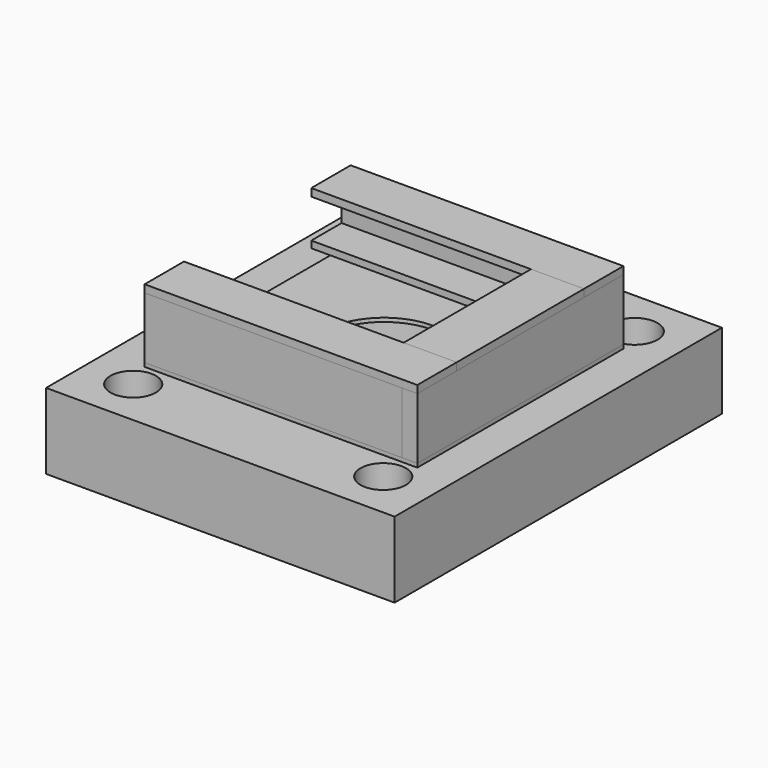
from build123d import *

# Parameters (mm, degrees)
SKETCH_W          = 46
SKETCH_H          = 54
PAD_DEPTH         = 10
SKETCH001_R       = 12.5
SKETCH001_R_2     = 3
POCKET_DEPTH      = 10.001
BOX001_W          = 2
BOX001_H          = 34
BOX001_DEPTH      = 8.1
BOX002_W          = 34
BOX002_H          = 1.5
BOX002_DEPTH      = 8.1
BOX003_W          = 34
BOX003_H          = 1.5
BOX003_DEPTH      = 8.1
BOX007_W          = 36
BOX007_H          = 6.5
BOX007_DEPTH      = 1
BOX008_W          = 36
BOX008_H          = 6.5
BOX008_DEPTH      = 1
BOX009_W          = 7
BOX009_H          = 21
BOX009_DEPTH      = 1
BOX004_W          = 34
BOX004_H          = 5
BOX004_DEPTH      = 0.9
BOX005_W          = 34
BOX005_H          = 5
BOX005_DEPTH      = 0.9
BOX011_W          = 5
BOX011_H          = 21
BOX011_DEPTH      = 0.9
CYLINDER001_R     = 8
CYLINDER001_DEPTH = 0.5
BOX_W             = 36
BOX_H             = 34
BOX_DEPTH         = 0.5


with BuildPart() as body:
    # Sketch → Pad (new body)
    with BuildSketch(Plane.XY):
        Rectangle(SKETCH_W, SKETCH_H)
    extrude(amount=PAD_DEPTH)

    # Sketch001 (on Face6 of Pad) → Pocket (cut, through all)
    with BuildSketch(Plane.XY.offset(10)):
        Circle(SKETCH001_R)
        with Locations((16.5, 20.75)):
            Circle(SKETCH001_R_2)
        with Locations((-16.5, 20.75)):
            Circle(SKETCH001_R_2)
        with Locations((-16.5, -20.75)):
            Circle(SKETCH001_R_2)
        with Locations((16.5, -20.75)):
            Circle(SKETCH001_R_2)
    extrude(amount=-POCKET_DEPTH, mode=Mode.SUBTRACT)


with BuildPart() as body_1:
    # Body placement: moved
    add(body.part.moved(Location((0, 0, -4))))


with BuildPart() as cube001:
    # Box001 → Box001 (new body)
    with BuildSketch(Plane(origin=(16, -17, 6.5), x_dir=(1, 0, 0), z_dir=(0, 0, 1))):
        with Locations((1, 17)):
            Rectangle(BOX001_W, BOX001_H)
    extrude(amount=BOX001_DEPTH)


with BuildPart() as cube002:
    # Box002 → Box002 (new body)
    with BuildSketch(Plane(origin=(-18, 15.5, 6.5), x_dir=(1, 0, 0), z_dir=(0, 0, 1))):
        with Locations((17, 0.75)):
            Rectangle(BOX002_W, BOX002_H)
    extrude(amount=BOX002_DEPTH)


with BuildPart() as cube003:
    # Box003 → Box003 (new body)
    with BuildSketch(Plane(origin=(-18, -17, 6.5), x_dir=(1, 0, 0), z_dir=(0, 0, 1))):
        with Locations((17, 0.75)):
            Rectangle(BOX003_W, BOX003_H)
    extrude(amount=BOX003_DEPTH)


with BuildPart() as cube007:
    # Box007 → Box007 (new body)
    with BuildSketch(Plane(origin=(-18, 10.5, 14.6), x_dir=(1, 0, 0), z_dir=(0, 0, 1))):
        with Locations((18, 3.25)):
            Rectangle(BOX007_W, BOX007_H)
    extrude(amount=BOX007_DEPTH)


with BuildPart() as cube008:
    # Box008 → Box008 (new body)
    with BuildSketch(Plane(origin=(-18, -17, 14.6), x_dir=(1, 0, 0), z_dir=(0, 0, 1))):
        with Locations((18, 3.25)):
            Rectangle(BOX008_W, BOX008_H)
    extrude(amount=BOX008_DEPTH)


with BuildPart() as cube009:
    # Box009 → Box009 (new body)
    with BuildSketch(Plane(origin=(11, -10.5, 14.6), x_dir=(1, 0, 0), z_dir=(0, 0, 1))):
        with Locations((3.5, 10.5)):
            Rectangle(BOX009_W, BOX009_H)
    extrude(amount=BOX009_DEPTH)


with BuildPart() as cube004:
    # Box004 → Box004 (new body)
    with BuildSketch(Plane(origin=(-18, 10.5, 8.6), x_dir=(1, 0, 0), z_dir=(0, 0, 1))):
        with Locations((17, 2.5)):
            Rectangle(BOX004_W, BOX004_H)
    extrude(amount=BOX004_DEPTH)


with BuildPart() as cube005:
    # Box005 → Box005 (new body)
    with BuildSketch(Plane(origin=(-18, -15.5, 8.6), x_dir=(1, 0, 0), z_dir=(0, 0, 1))):
        with Locations((17, 2.5)):
            Rectangle(BOX005_W, BOX005_H)
    extrude(amount=BOX005_DEPTH)


with BuildPart() as cube011:
    # Box011 → Box011 (new body)
    with BuildSketch(Plane(origin=(11, -10.5, 8.6), x_dir=(1, 0, 0), z_dir=(0, 0, 1))):
        with Locations((2.5, 10.5)):
            Rectangle(BOX011_W, BOX011_H)
    extrude(amount=BOX011_DEPTH)


with BuildPart() as cylinder001:
    # Cylinder001 → Cylinder001 (new body)
    with BuildSketch(Plane.XY.offset(11)):
        Circle(CYLINDER001_R)
    extrude(amount=CYLINDER001_DEPTH)


with BuildPart() as cut:
    # Box → Box (new body)
    with BuildSketch(Plane(origin=(-18, -17, 11), x_dir=(1, 0, 0), z_dir=(0, 0, 1))):
        with Locations((18, 17)):
            Rectangle(BOX_W, BOX_H)
    extrude(amount=BOX_DEPTH)

    # Cut: cut Cylinder001
    add(cylinder001.part, mode=Mode.SUBTRACT)


with BuildPart() as cut_1:
    # Cut placement: moved
    add(cut.part.moved(Location((0, 0, -5))))


solid = Compound([body_1.part, cube001.part, cube002.part, cube003.part, cube007.part, cube008.part, cube009.part, cube004.part, cube005.part, cube011.part, cut_1.part])
